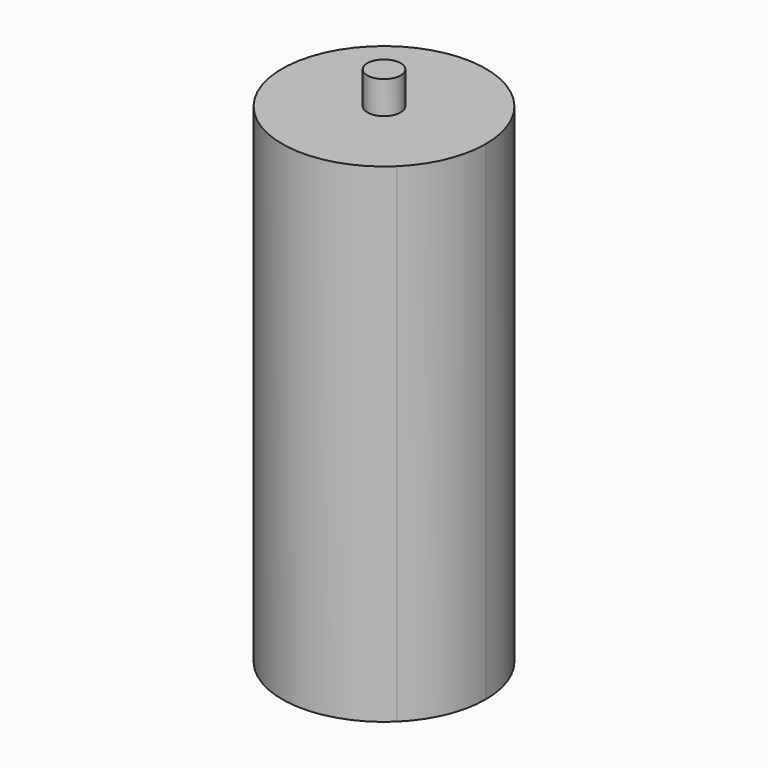
from build123d import *

# Parameters (mm, degrees)
F0_W     = 17.519105383
F0_H     = 17.8348239851
F0_R     = 2.0418919941
F1_DEPTH = 60
F2_DEPTH = 64


with BuildPart() as f1:
    # F0 (on Top) → F1 (new body)
    with BuildSketch(Plane.XY):
        with BuildLine():
            Line((-8.7595526915, 8.9174119926), (8.7595526915, 8.9174119926))
            ThreePointArc((8.7595526915, 8.9174119926), (0, 12.5), (-8.7595526915, 8.9174119926))
        make_face()
        with BuildLine():
            Line((-8.7595526915, -8.9174119926), (-8.7595526915, 8.9174119926))
            ThreePointArc((-8.7595526915, 8.9174119926), (-12.5, 0), (-8.7595526915, -8.9174119926))
        make_face()
        with BuildLine():
            ThreePointArc((-8.7595526915, -8.9174119926), (0, -12.5), (8.7595526915, -8.9174119926))
            Line((8.7595526915, -8.9174119926), (-8.7595526915, -8.9174119926))
        make_face()
        with BuildLine():
            ThreePointArc((8.7595526915, -8.9174119926), (11.5270206177, -4.835059015), (12.5, 0))
            ThreePointArc((12.5, 0), (11.5270206177, 4.835059015), (8.7595526915, 8.9174119926))
            Line((8.7595526915, 8.9174119926), (8.7595526915, -8.9174119926))
        make_face()
        Rectangle(F0_W, F0_H)
        Circle(F0_R, mode=Mode.SUBTRACT)
    extrude(amount=F1_DEPTH)

    # F0 (on Top) → F2 (join)
    with BuildSketch(Plane.XY):
        Circle(F0_R)
    extrude(amount=F2_DEPTH)


solid = f1.part
